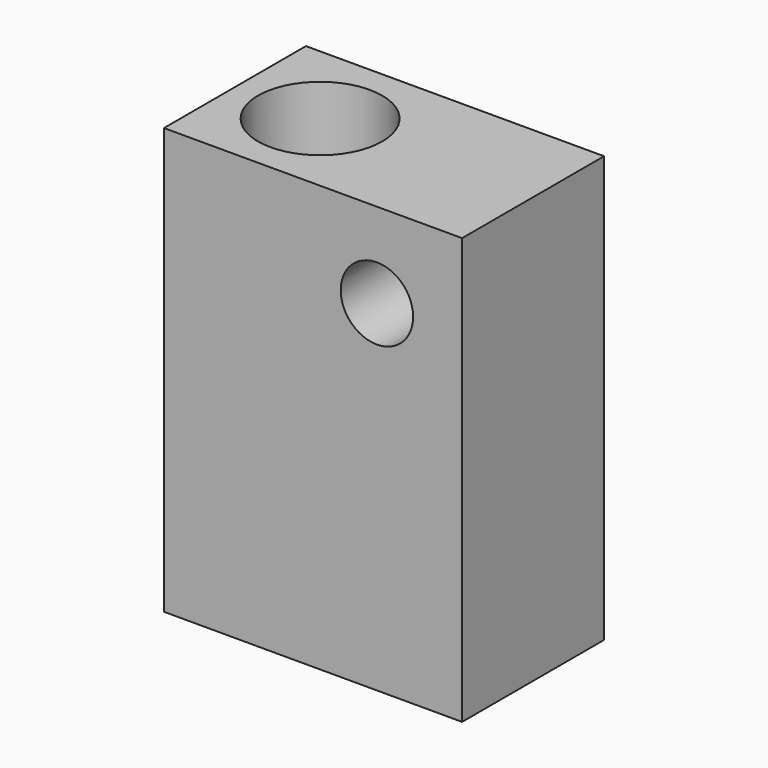
from build123d import *

# Parameters (mm, degrees)
F0_R     = 8.75
F1_DEPTH = 60
F3_D     = 10.2
F3_DEPTH = 25


with BuildPart() as f1:
    # F0 (on Top) → F1 (new body)
    with BuildSketch(Plane.XY):
        Polygon((-5.384058, -31.211354), (11.615942, -31.211354), (11.615942, -6.211354), (-18.384058, -6.211354), (-30.384058, -6.211354), (-30.384058, -18.711354), (-30.384058, -31.211354), align=None)
        with Locations((-18.384058, -18.711354)):
            Circle(F0_R, mode=Mode.SUBTRACT)
    extrude(amount=F1_DEPTH)

    # F3
    with Locations(Plane(origin=(0, -6.211354, 0), x_dir=(-1, 0, 0), z_dir=(0, 1, 0))):
        with Locations((0.384058, 48)):
            Hole(F3_D / 2, depth=F3_DEPTH)


solid = f1.part
